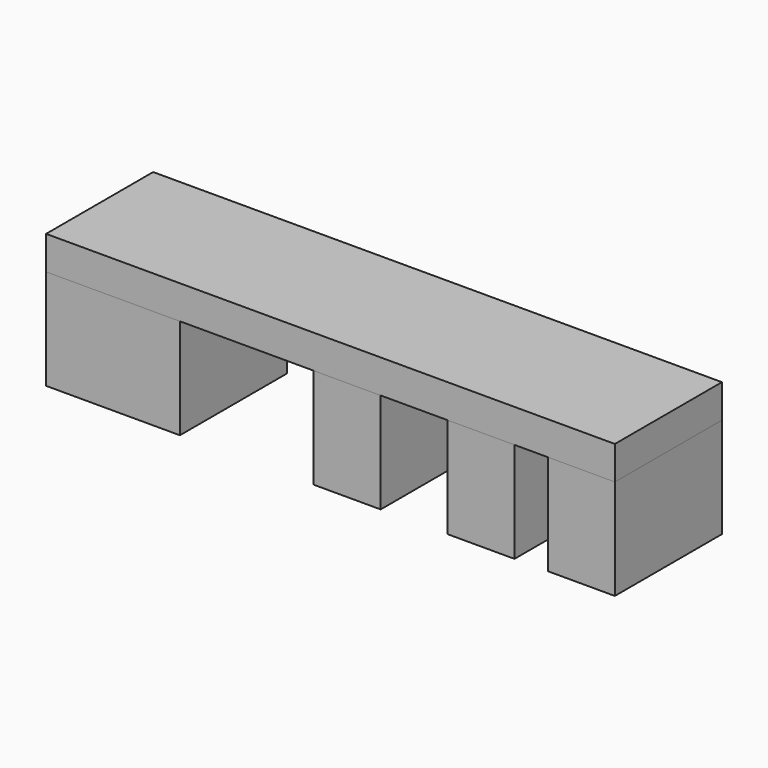
from build123d import *

# Parameters (mm, degrees)
F0_W     = 20
F0_H     = 20
F0_W_2   = 10
F1_DEPTH = 15
F2_W     = 65
F2_H     = 20
F2_W_2   = 20
F3_DEPTH = 5


with BuildPart() as f1:
    # F0 (on Top) → F1 (new body)
    with BuildSketch(Plane.XY):
        with Locations((-33.321282, -28.07335)):
            Rectangle(F0_W, F0_H)
        with Locations((1.678718, -28.07335)):
            Rectangle(F0_W_2, F0_H)
        with Locations((21.678718, -28.07335)):
            Rectangle(F0_W_2, F0_H)
        with Locations((36.678718, -28.07335)):
            Rectangle(F0_W_2, F0_H)
    extrude(amount=F1_DEPTH)


with BuildPart() as f3:
    # F2 (on face) → F3 (new body)
    with BuildSketch(Plane.XY.offset(15)):
        with Locations((9.178718, -28.07335)):
            Rectangle(F2_W, F2_H)
        with Locations((-33.321282, -28.07335)):
            Rectangle(F2_W_2, F2_H)
    extrude(amount=F3_DEPTH)


solid = Compound([f1.part, f3.part])
